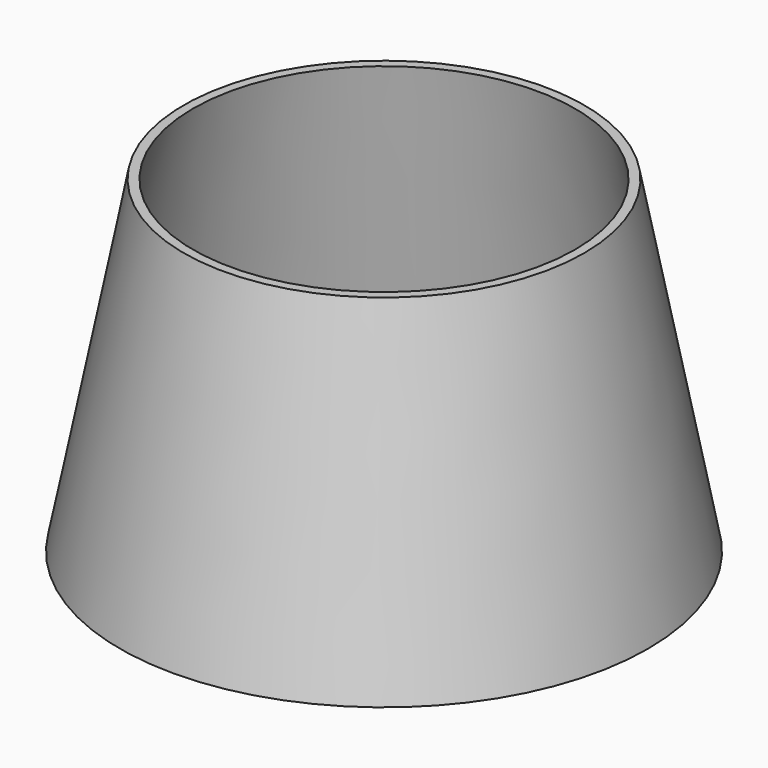
from build123d import *

# Parameters (mm, degrees)
F0_R     = 72.5088997919
F1_DEPTH = 90
F1_TAPER = 11
F2_T     = -2.5


with BuildPart() as f1:
    # F0 (on Top) → F1 (new body)
    with BuildSketch(Plane.XY):
        Circle(F0_R)
    extrude(amount=F1_DEPTH, taper=F1_TAPER)

    # F2
    f2_openings = [f1.faces().sort_by_distance(p)[0] for p in [
        (0, 0, 90),
        (0, 0, 0),
    ]]
    offset(amount=F2_T, openings=f2_openings)


solid = f1.part
